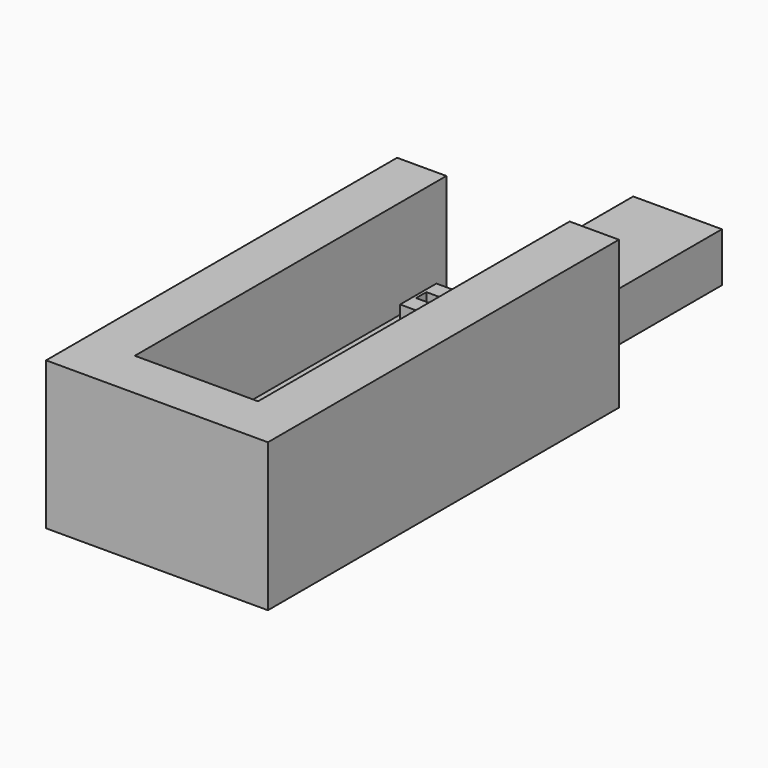
from build123d import *

# Parameters (mm, degrees)
SKETCH_W        = 22.5
SKETCH_H        = 66
PAD_DEPTH       = 15
SKETCH001_W     = 12.5
SKETCH001_H     = 75
SKETCH001_W_2   = 4.6
SKETCH001_H_2   = 4.6
POCKET_DEPTH    = 10
SKETCH002_W     = 7
SKETCH002_H     = 7
POCKET001_DEPTH = 5.8
SKETCH004_W     = 1.1
SKETCH004_H     = 4
POCKET002_DEPTH = 10
SKETCH005_W     = 4
SKETCH005_H     = 1.3
POCKET003_DEPTH = 10
SKETCH007_W     = 19.75
SKETCH007_H     = 26.5
SKETCH007_W_2   = 17.25
POCKET004_DEPTH = 20


with BuildPart() as part:
    # Sketch → Pad (new body)
    with BuildSketch(Plane.XY):
        with Locations((51.75, -67)):
            Rectangle(SKETCH_W, SKETCH_H)
    extrude(amount=PAD_DEPTH)

    # Sketch001 (on DatumPlane) → Pocket (cut)
    with BuildSketch(Plane.XY.offset(15)):
        with Locations((51.75, -57.5)):
            Rectangle(SKETCH001_W, SKETCH001_H)
        with Locations((51.75, -64)):
            Rectangle(SKETCH001_W_2, SKETCH001_H_2, mode=Mode.SUBTRACT)
    extrude(amount=-POCKET_DEPTH, mode=Mode.SUBTRACT)

    # Sketch002 (on DatumPlane) → Pocket001 (cut)
    with BuildSketch(Plane.XY.offset(15)):
        with Locations((51.5, -63.5)):
            Rectangle(SKETCH002_W, SKETCH002_H)
    extrude(amount=-POCKET001_DEPTH, mode=Mode.SUBTRACT)

    # Sketch004 (on DatumPlane) → Pocket002 (cut)
    with BuildSketch(Plane.XY.offset(15)):
        with Locations((51.75, -64)):
            Rectangle(SKETCH004_W, SKETCH004_H)
    extrude(amount=-POCKET002_DEPTH, mode=Mode.SUBTRACT)

    # Sketch005 (on DatumPlane) → Pocket003 (cut)
    with BuildSketch(Plane.XY.offset(15)):
        with Locations((51.75, -64)):
            Rectangle(SKETCH005_W, SKETCH005_H)
    extrude(amount=-POCKET003_DEPTH, mode=Mode.SUBTRACT)

    # Sketch007 (on DatumPlane) → Pocket004 (cut)
    with BuildSketch(Plane.XY.offset(15)):
        with Locations((66.125, -42.25)):
            Rectangle(SKETCH007_W, SKETCH007_H)
        with Locations((38.625, -42.25)):
            Rectangle(SKETCH007_W_2, SKETCH007_H)
    extrude(amount=-POCKET004_DEPTH, mode=Mode.SUBTRACT)


solid = part.part
